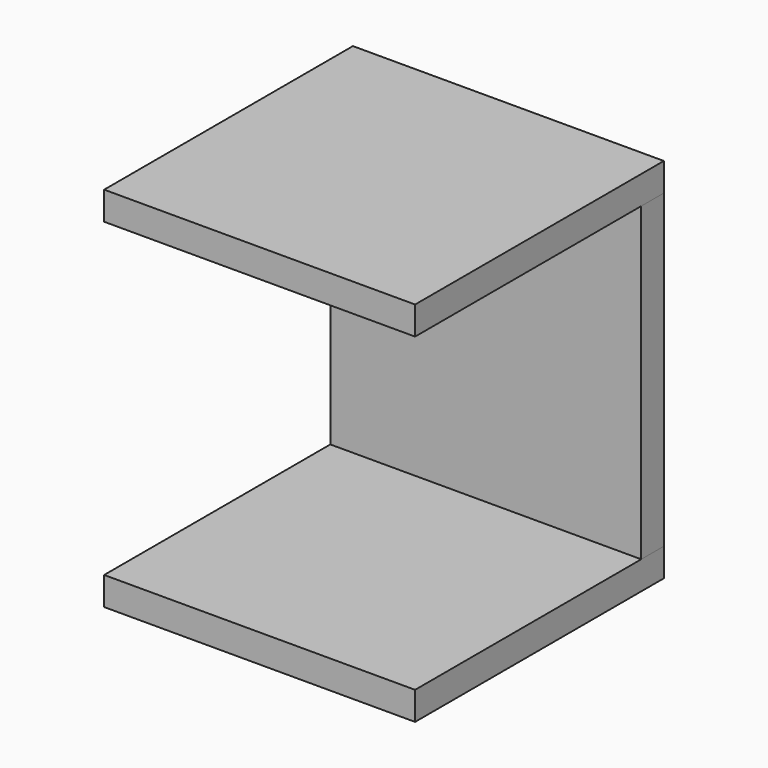
from build123d import *

# Parameters (mm, degrees)
F0_W     = 550
F0_H     = 50
F0_H_2   = 500
F1_DEPTH = 50
F2_DEPTH = 550
F3_W     = 550
F3_H     = 550
F4_DEPTH = 50


with BuildPart() as f1:
    # F0 (on Top) → F1 (new body)
    with BuildSketch(Plane.XY):
        with Locations((-231.651401, 488.065613)):
            Rectangle(F0_W, F0_H)
        with Locations((-231.651401, 213.065613)):
            Rectangle(F0_W, F0_H_2)
    extrude(amount=F1_DEPTH)


with BuildPart() as f2:
    # F0 (on Top) → F2 (new body)
    with BuildSketch(Plane.XY):
        with Locations((-231.651401, 488.065613)):
            Rectangle(F0_W, F0_H)
    extrude(amount=-F2_DEPTH)


with BuildPart() as f4:
    # F3 (on face) → F4 (new body)
    with BuildSketch(Plane(origin=(0, 0, -550), x_dir=(1, 0, 0), z_dir=(0, 0, -1))):
        with Locations((-231.651401, -238.065613)):
            Rectangle(F3_W, F3_H)
        with Locations((-231.651401, -238.065613)):
            Rectangle(F3_W, F3_H)
    extrude(amount=F4_DEPTH)


solid = Compound([f1.part, f2.part, f4.part])
